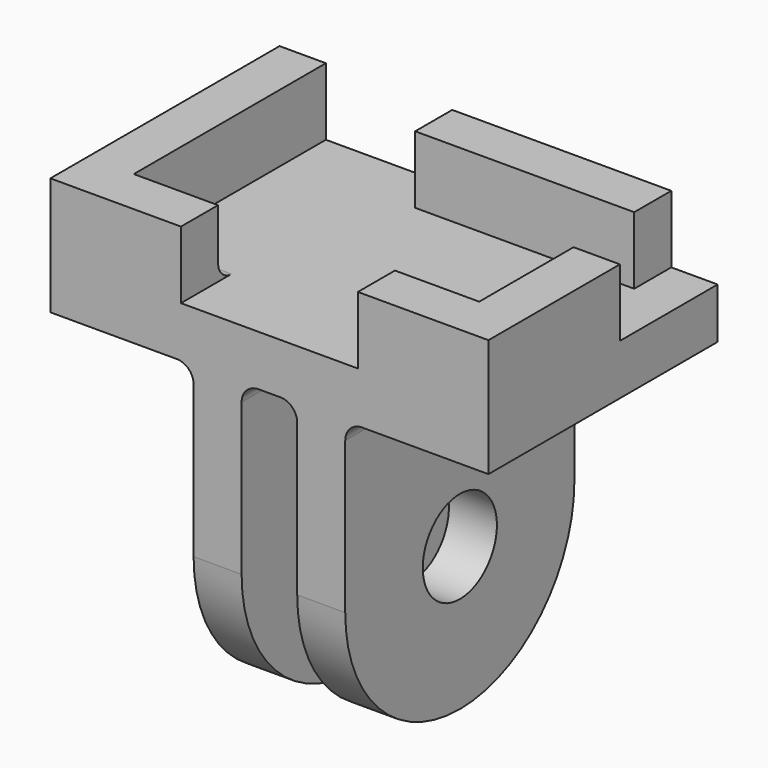
from build123d import *

# Parameters (mm, degrees)
F0_W     = 26
F0_H     = 17
F1_DEPTH = 3
F2_W     = 13
F2_H     = 2.75
F3_DEPTH = 4
F7_DEPTH = 4.5
F8_W     = 3.3
F8_H     = 20.4774261328
F9_DEPTH = 25
F10_R    = 1


with BuildPart() as f1:
    # F0 (on Top) → F1 (new body)
    with BuildSketch(Plane.XY):
        with Locations((13, 8.5)):
            Rectangle(F0_W, F0_H)
    extrude(amount=F1_DEPTH)

    # F2 (on face) → F3 (join)
    with BuildSketch(Plane.XY.offset(3)):
        Polygon((26, 0), (26, 9.75), (23.25, 9.75), (23.25, 2.75), (18.25, 2.75), (18.25, 0), align=None)
        with Locations((16.75, 15.625)):
            Rectangle(F2_W, F2_H)
        Polygon((2.75, 17), (0, 17), (0, 0), (7.75, 0), (7.75, 2.75), (2.75, 2.75), align=None)
    extrude(amount=F3_DEPTH)

    # F6 (on plane+point) → F7 (join, symmetric)
    with BuildSketch(Plane(origin=(13, 0, 0), x_dir=(0, -1, 0), z_dir=(-1, 0, 0))):
        with BuildLine():
            Line((0, -10), (0, 0))
            Line((0, 0), (-17, 0))
            Line((-17, 0), (-17, -10))
            ThreePointArc((-17, -10), (-8.5, -1.5), (0, -10))
        make_face()
        with BuildLine():
            ThreePointArc((-17, -10), (-8.5, -18.5), (0, -10))
            Line((0, -10), (-5.75, -10))
            ThreePointArc((-5.75, -10), (-8.5, -12.75), (-11.25, -10))
            Line((-11.25, -10), (-17, -10))
        make_face()
        with BuildLine():
            Line((-5.75, -10), (0, -10))
            ThreePointArc((0, -10), (-8.5, -1.5), (-17, -10))
            Line((-17, -10), (-11.25, -10))
            ThreePointArc((-11.25, -10), (-8.5, -7.25), (-5.75, -10))
        make_face()
    extrude(amount=F7_DEPTH, both=True)

    # F8 (on face) → F9 (cut)
    with BuildSketch(Plane(origin=(0, 17, 0), x_dir=(-1, 0, 0), z_dir=(0, 1, 0))):
        with Locations((-13, -10.2387130664)):
            Rectangle(F8_W, F8_H)
    extrude(amount=-F9_DEPTH, mode=Mode.SUBTRACT)

    # F10
    f10_edges = [f1.edges().sort_by_distance(p)[0] for p in [
        (20.75, 2.75, 3),
        (5.25, 2.75, 3),
        (8.5, 8.5, 0),
        (17.5, 8.5, 0),
        (14.65, 8.5, 0),
        (11.35, 8.5, 0),
    ]]
    fillet(f10_edges, radius=F10_R)


solid = f1.part
